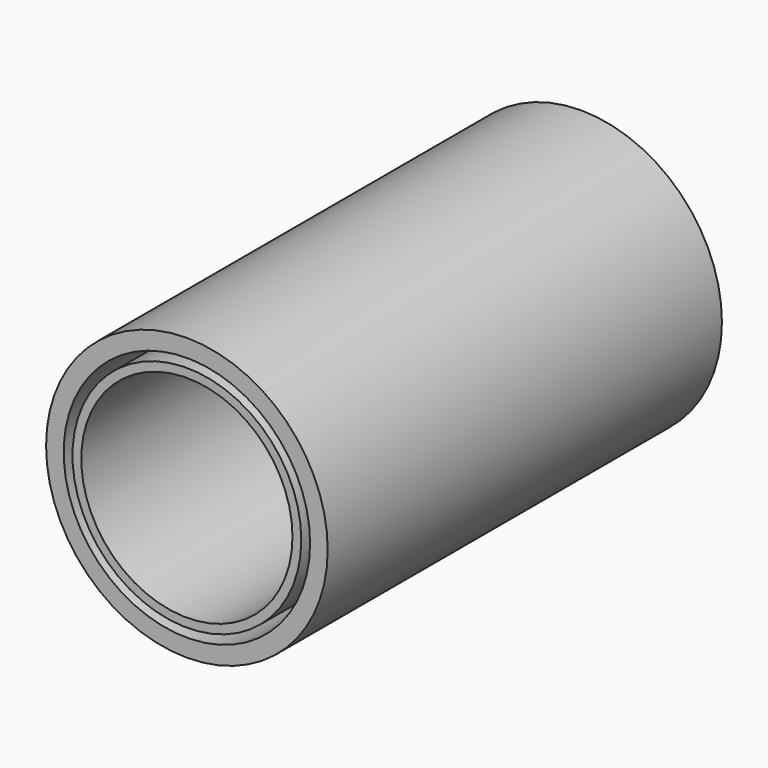
from build123d import *

# Parameters (mm, degrees)
F0_R     = 50.8
F1_DEPTH = 25.4
F2_R     = 50.8
F2_R_2   = 44.45
F2_R_3   = 41.275
F2_R_4   = 38.1
F3_DEPTH = 152.4


with BuildPart() as f1:
    # F0 (on Front) → F1 (new body)
    with BuildSketch(Plane.XZ):
        Circle(F0_R)
    extrude(amount=F1_DEPTH)

    # F2 (on face) → F3 (join)
    with BuildSketch(Plane.XZ.offset(25.4)):
        Circle(F2_R)
        Circle(F2_R_2, mode=Mode.SUBTRACT)
        Circle(F2_R)
        Circle(F2_R_2, mode=Mode.SUBTRACT)
        Circle(F2_R_3)
        Circle(F2_R_4, mode=Mode.SUBTRACT)
    extrude(amount=F3_DEPTH)


solid = f1.part
